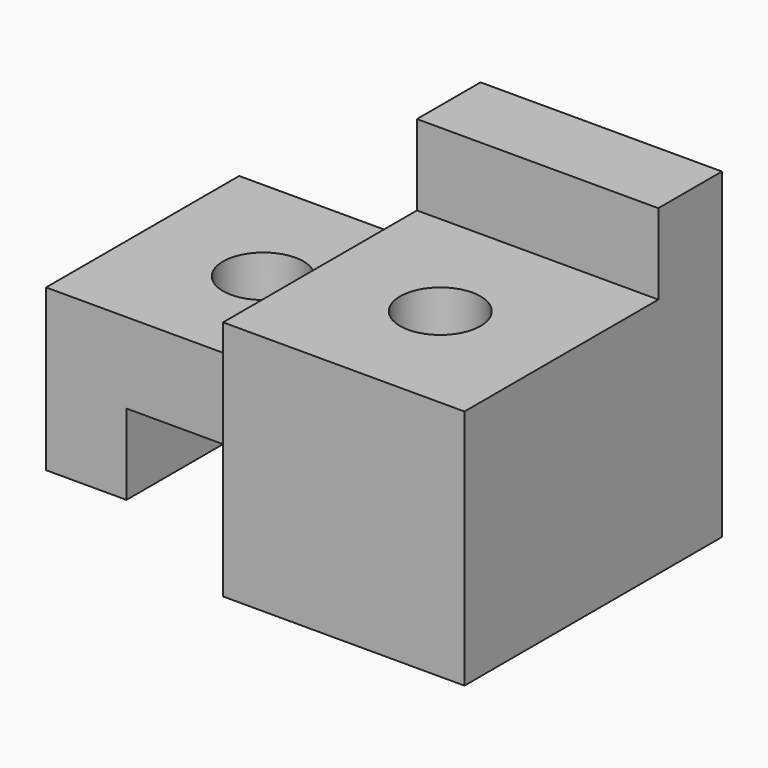
from build123d import *

# Parameters (mm, degrees)
F1_DEPTH = 19.05
F2_W     = 19.05
F2_H     = 25.4
F3_DEPTH = 25.4
F4_W     = 19.05
F4_H     = 19.1262
F5_DEPTH = 6.35
F6_R     = 3.175
F7_DEPTH = 12.7


with BuildPart() as f1:
    # F0 (on Front) → F1 (new body)
    with BuildSketch(Plane.XZ):
        Polygon((0, 12.7), (0, 0), (6.35, 0), (6.35, 6.35), (19.05, 6.35), (19.05, 12.7), align=None)
    extrude(amount=-F1_DEPTH)

    # F2 (on Top) → F3 (join)
    with BuildSketch(Plane.XY):
        with Locations((28.575, 6.35)):
            Rectangle(F2_W, F2_H)
    extrude(amount=F3_DEPTH)

    # F4 (on face) → F5 (cut)
    with BuildSketch(Plane.XY.offset(25.4)):
        with Locations((28.575, 3.2131)):
            Rectangle(F4_W, F4_H)
    extrude(amount=-F5_DEPTH, mode=Mode.SUBTRACT)

    # F6 (on face) → F7 (cut, symmetric)
    with BuildSketch(Plane.XY.offset(12.7)):
        with Locations((28.575, 3.175)):
            Circle(F6_R)
        with Locations((9.525, 9.525)):
            Circle(F6_R)
    extrude(amount=F7_DEPTH, both=True, mode=Mode.SUBTRACT)


solid = f1.part
